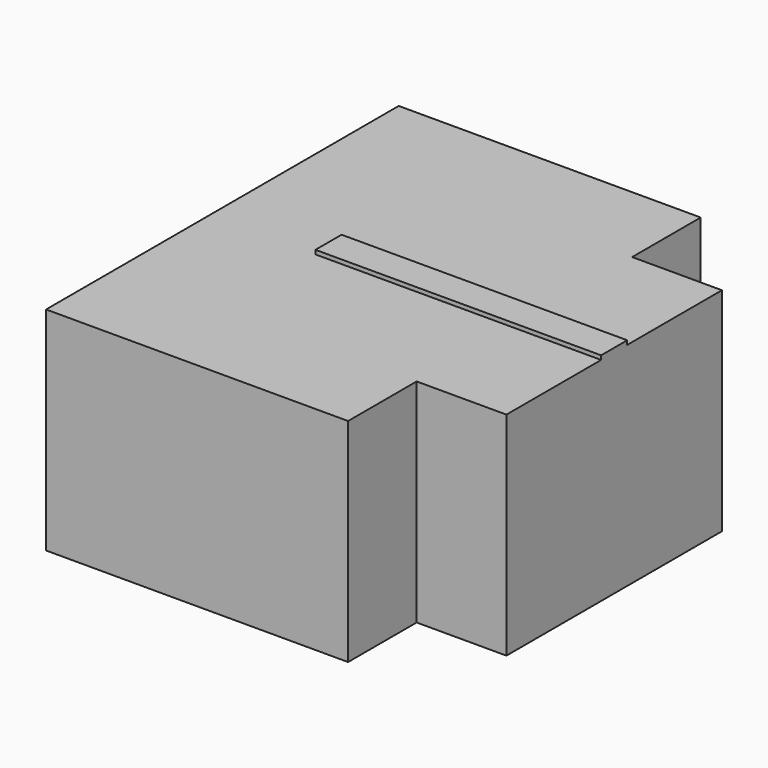
from build123d import *

# Parameters (mm, degrees)
F0_W     = 11
F0_H     = 14.5
F1_DEPTH = 26
F2_DEPTH = 26.5


with BuildPart() as f1:
    # F0 (on Top) → F1 (new body)
    with BuildSketch(Plane.XY):
        Polygon((37, 0), (0, 0), (0, -54), (37, -54), (37, -43.5), (37, -29), (13, -29), (13, -25), (37, -25), (37, -10.5), align=None)
        with Locations((42.5, -17.75)):
            Rectangle(F0_W, F0_H)
        with Locations((42.5, -36.25)):
            Rectangle(F0_W, F0_H)
    extrude(amount=F1_DEPTH)

    # F0 (on Top) → F2 (join)
    with BuildSketch(Plane.XY):
        Polygon((37, -27), (37, -25), (13, -25), (13, -29), (37, -29), align=None)
        Polygon((48, -25), (37, -25), (37, -27), (37, -29), (48, -29), align=None)
    extrude(amount=F2_DEPTH)


solid = f1.part
